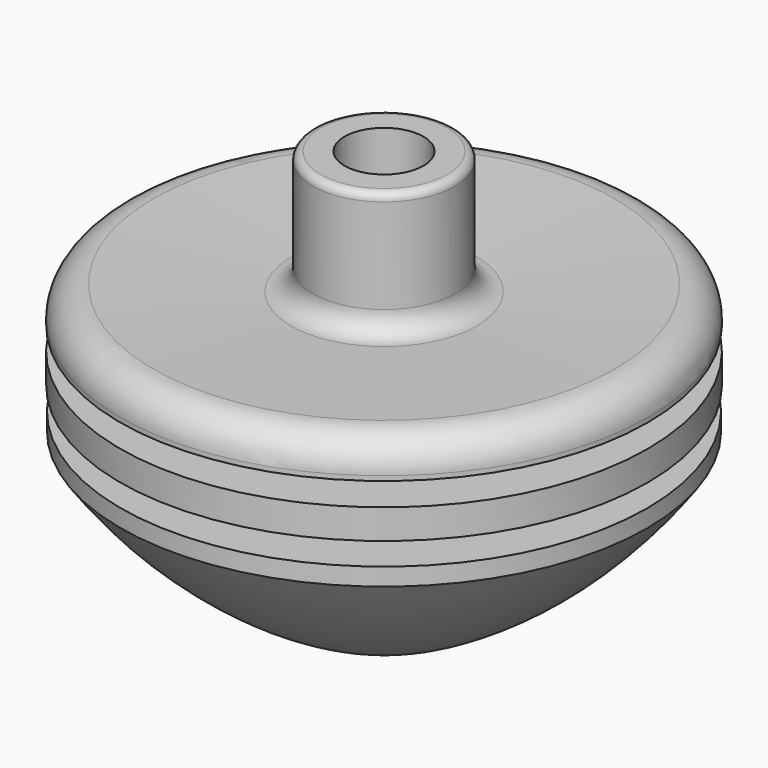
from build123d import *


with BuildPart() as f1:
    # F0 (on Front) → F1 (revolve)
    with BuildSketch(Plane.XZ):
        with BuildLine():
            Line((31.75, 22.357576), (31.75, 24.480273))
            Line((31.75, 24.480273), (21.035845, 24.449334))
            ThreePointArc((21.035845, 24.449334), (20.13545, 24.820007), (19.762178, 25.719328))
            Line((19.762178, 25.719328), (19.762178, 25.973328))
            ThreePointArc((19.762178, 25.973328), (20.134152, 26.871354), (21.032178, 27.243328))
            Line((21.032178, 27.243328), (31.827178, 27.243328))
            Line((31.827178, 27.243328), (31.827178, 30.820638))
            Line((31.827178, 30.820638), (21.032178, 30.820638))
            ThreePointArc((21.032178, 30.820638), (20.134152, 31.192612), (19.762178, 32.090638))
            Line((19.762178, 32.090638), (19.762178, 32.344638))
            ThreePointArc((19.762178, 32.344638), (20.134152, 33.242663), (21.032178, 33.614638))
            Line((21.032178, 33.614638), (31.827178, 33.614638))
            Line((31.827178, 33.614638), (31.827178, 34.170105))
            ThreePointArc((31.827178, 34.170105), (30.644563, 36.929262), (27.830881, 37.975548))
            Line((27.830881, 37.975548), (11.22465, 37.162586))
            ThreePointArc((11.22465, 37.162586), (9.348862, 37.86011), (8.560453, 39.699547))
            Line((8.560453, 39.699547), (8.560453, 51.129547))
            ThreePointArc((8.560453, 51.129547), (8.285, 51.794548), (7.62, 52.07))
            Line((7.62, 52.07), (4.7625, 52.07))
            Line((4.7625, 52.07), (4.7625, 42.545))
            Line((4.7625, 42.545), (0, 42.545))
            Line((0, 42.545), (0, 21.59))
            Line((0, 21.59), (1.5875, 21.59))
            Line((1.5875, 21.59), (1.5875, 0.4572))
            ThreePointArc((1.5875, 0.4572), (18.50962, 8.872033), (31.75, 22.357576))
        make_face()
    revolve(axis=Axis((0, 0, 26.035), (0, 0, -1)))


solid = f1.part
